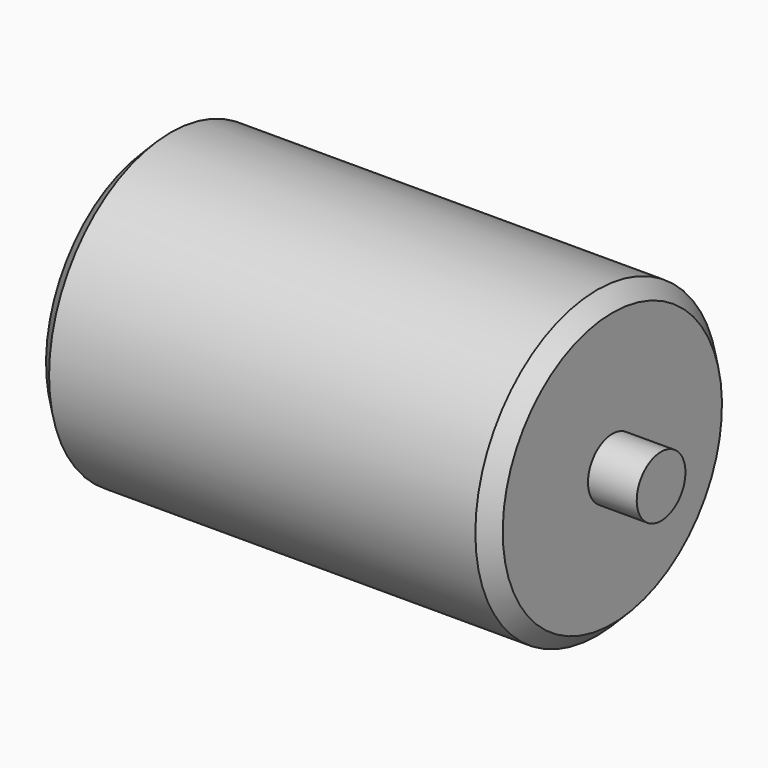
from build123d import *

# Parameters (mm, degrees)
F0_W     = 16
F0_H     = 10
F2_SIZE2 = 5
F2_SIZE  = 5


with BuildPart() as f1:
    # F0 (on Front) → F1 (revolve)
    with BuildSketch(Plane.XZ):
        Polygon((150, 100), (0, 100), (0, 60), (0, 50), (150, 50), (150, 60), align=None)
        with Locations((-8, 55)):
            Rectangle(F0_W, F0_H)
        with Locations((158, 55)):
            Rectangle(F0_W, F0_H)
    revolve(axis=Axis((89.1104051843, 0, 50), (1, 0, 0)))

    # F2
    f2_edges = [f1.edges().sort_by_distance(p)[0] for p in [
        (150, 0, 0),
        (0, 0, 0),
        (75, 0, 100),
    ]]
    chamfer(f2_edges, length=F2_SIZE, length2=F2_SIZE2)


solid = f1.part
